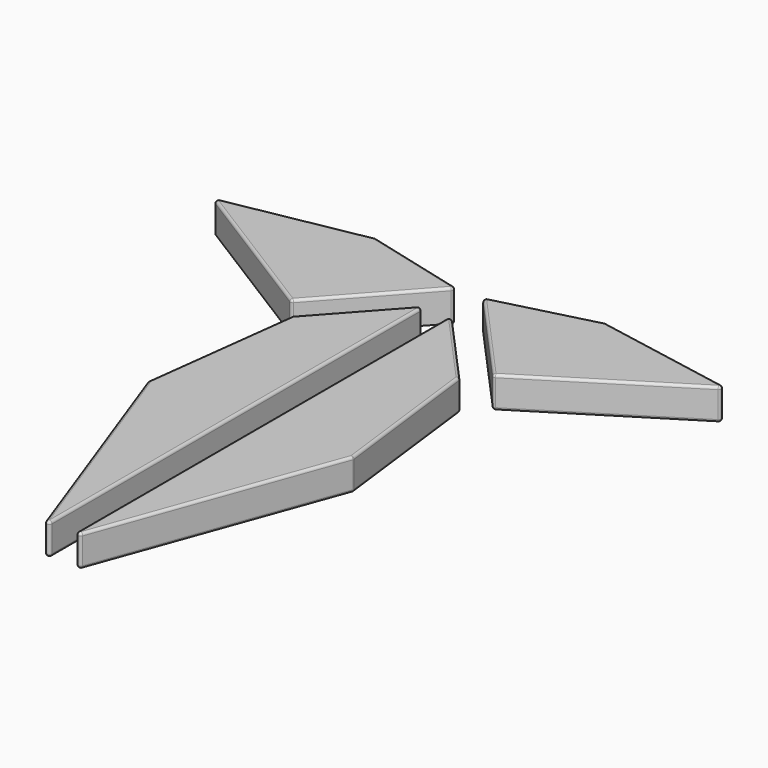
from build123d import *

# Parameters (mm, degrees)
F1_DEPTH = 7.62
F2_R     = 0.635


with BuildPart() as f1:
    # F0 (on Top) → F1 (new body)
    with BuildSketch(Plane.XY):
        Polygon((20.183703, 60.292676), (3.175, 79.157035), (3.175, -37.205468), (24.852548, 22.479823), align=None)
        Polygon((-24.435879, 65.059379), (-3.175, 88.639827), (-27.770663, 94.981226), (-62.115648, 88.639827), align=None)
        Polygon((-3.175, -37.205468), (-3.175, 79.157035), (-20.183703, 60.292676), (-24.852548, 22.479823), align=None)
        Polygon((62.115648, 88.639827), (27.770663, 94.981226), (3.175, 88.639827), (24.435879, 65.059379), align=None)
    extrude(amount=F1_DEPTH)

    # F2
    f2_edges = [f1.edges().sort_by_distance(p)[0] for p in [
        (3.175, -37.205468, 3.81),
        (-3.175, -37.205468, 3.81),
        (20.183703, 60.292676, 3.81),
        (24.852548, 22.479823, 3.81),
        (-3.175, 79.157035, 3.81),
        (-43.275764, 76.849603, 7.62),
        (-62.115648, 88.639827, 3.81),
        (-43.275764, 76.849603, 0),
        (-44.943156, 91.810526, 7.62),
        (-15.472832, 91.810526, 7.62),
        (-13.80544, 76.849603, 7.62),
        (-3.175, 88.639827, 3.81),
        (-27.770663, 94.981226, 3.81),
        (-15.472832, 91.810526, 0),
        (-44.943156, 91.810526, 0),
        (13.80544, 76.849603, 7.62),
        (11.679352, 69.724856, 7.62),
        (3.175, 79.157035, 3.81),
        (-3.175, 20.975783, 7.62),
        (-11.679352, 69.724856, 7.62),
        (-22.518126, 41.38625, 7.62),
        (-14.013774, -7.362822, 7.62),
        (3.175, 20.975783, 7.62),
        (14.013774, -7.362822, 7.62),
        (22.518126, 41.38625, 0),
        (22.518126, 41.38625, 7.62),
        (14.013774, -7.362822, 0),
        (43.275764, 76.849603, 7.62),
        (44.943156, 91.810526, 7.62),
        (15.472832, 91.810526, 7.62),
        (15.472832, 91.810526, 0),
        (62.115648, 88.639827, 3.81),
        (27.770663, 94.981226, 3.81),
        (44.943156, 91.810526, 0),
        (24.435879, 65.059379, 3.81),
        (43.275764, 76.849603, 0),
        (13.80544, 76.849603, 0),
        (3.175, 88.639827, 3.81),
        (-24.435879, 65.059379, 3.81),
        (-22.518126, 41.38625, 0),
        (-14.013774, -7.362822, 0),
        (-3.175, 20.975783, 0),
        (-11.679352, 69.724856, 0),
        (11.679352, 69.724856, 0),
        (3.175, 20.975783, 0),
    ]]
    fillet(f2_edges, radius=F2_R)


solid = f1.part
